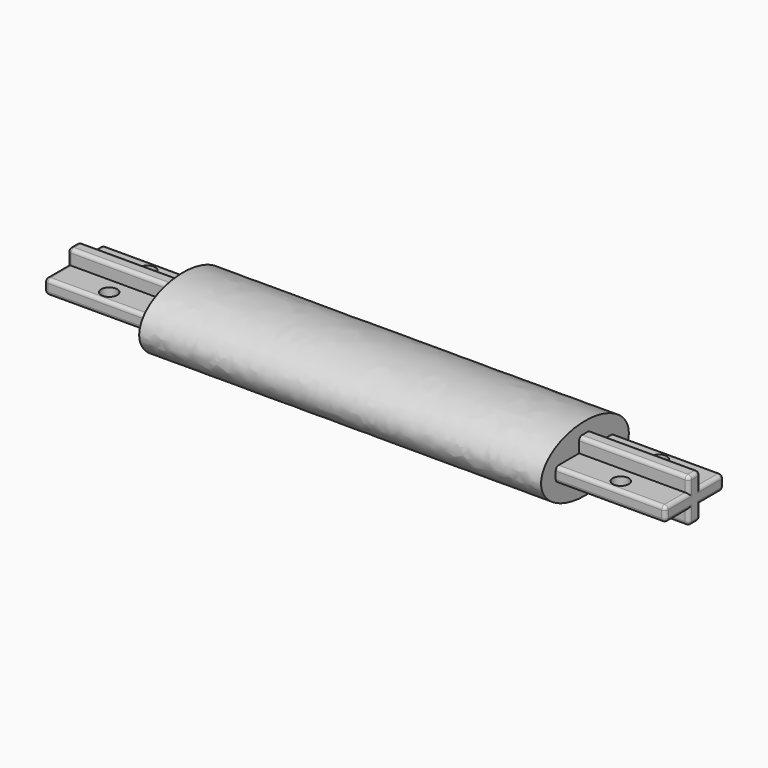
from build123d import *

# Parameters (mm, degrees)
F1_DEPTH       = 170
F2_R           = 1
F7_DEPTH       = 110
F8_D           = 4.4
F8_DEPTH       = 30
F8_START       = 13
F8_CBORE_D     = 4.4
F8_CBORE_DEPTH = 4
F8_TIP         = 1.3218933619


with BuildPart() as f1:
    # F0 (on Right) → F1 (new body)
    with BuildSketch(Plane.YZ):
        Polygon((2, 6), (0, 6), (-2, 6), (-2, 2), (-10, 2), (-10, 0), (-10, -2), (-2, -2), (-2, -6), (0, -6), (2, -6), (2, -2), (10, -2), (10, 0), (10, 2), (2, 2), align=None)
    extrude(amount=F1_DEPTH)

    # F2
    f2_edges = [f1.edges().sort_by_distance(p)[0] for p in [
        (85, 2, 6),
        (85, -10, 2),
        (85, -2, 6),
        (85, 2, -6),
        (85, 10, -2),
        (85, 10, 2),
        (85, -10, -2),
        (85, -2, -6),
        (170, -2, 4),
        (170, 2, 4),
        (170, 6, 2),
        (170, 0, 6),
        (170, -6, 2),
        (170, -10, 0),
        (170, -6, -2),
        (170, -2, -4),
        (170, 0, -6),
        (170, 2, -4),
        (170, 6, -2),
        (170, 10, 0),
        (0, -2, 4),
        (0, 0, 6),
        (0, 2, 4),
        (0, -6, 2),
        (0, -6, -2),
        (0, -10, 0),
        (0, -2, -4),
        (0, 2, -4),
        (0, 6, -2),
        (0, 10, 0),
        (0, 6, 2),
        (0, 0, -6),
    ]]
    fillet(f2_edges, radius=F2_R)

    # F6 (on offset) → F7 (join)
    with BuildSketch(Plane.YZ.offset(30)):
        with BuildLine():
            add(Edge.make_bspline(
                [(0, 9), (-36.2132034356, 9), (-10.6066017178, -6.3639610307), (15, -21.7279220614), (15, 0)],
                knots=[1.5707963268, 1.5707963268, 1.5707963268, 3.926990817, 3.926990817, 6.2831853072, 6.2831853072, 6.2831853072], degree=2, weights=[1, 0.3826834324, 1, 0.3826834324, 1]))
            Line((15, 0), (0, 0))
            Line((0, 0), (0, 9))
        make_face()
        with BuildLine():
            Line((0, 0), (15, 0))
            add(Edge.make_bspline(
                [(15, 0), (15, 9), (0, 9)],
                knots=[0, 0, 0, 1.5707963268, 1.5707963268, 1.5707963268], degree=2, weights=[1, 0.7071067812, 1]))
            Line((0, 9), (0, 0))
        make_face()
    extrude(amount=F7_DEPTH)

    # F8
    # its depths count from where the whole tool has entered the part; down to there all is cleared
    with Locations(Plane.XY.offset(15).offset(-F8_START)):
        with Locations((15, 6.5), (15, -6.5), (155, -6.5), (155, 6.5)):
            CounterBoreHole(F8_D / 2, F8_CBORE_D / 2, F8_CBORE_DEPTH, depth=F8_DEPTH)
            with Locations((0, 0, -(F8_DEPTH + F8_TIP / 2))):  # 118° drill point
                Cone(0, F8_D / 2, F8_TIP, mode=Mode.SUBTRACT)


solid = f1.part
